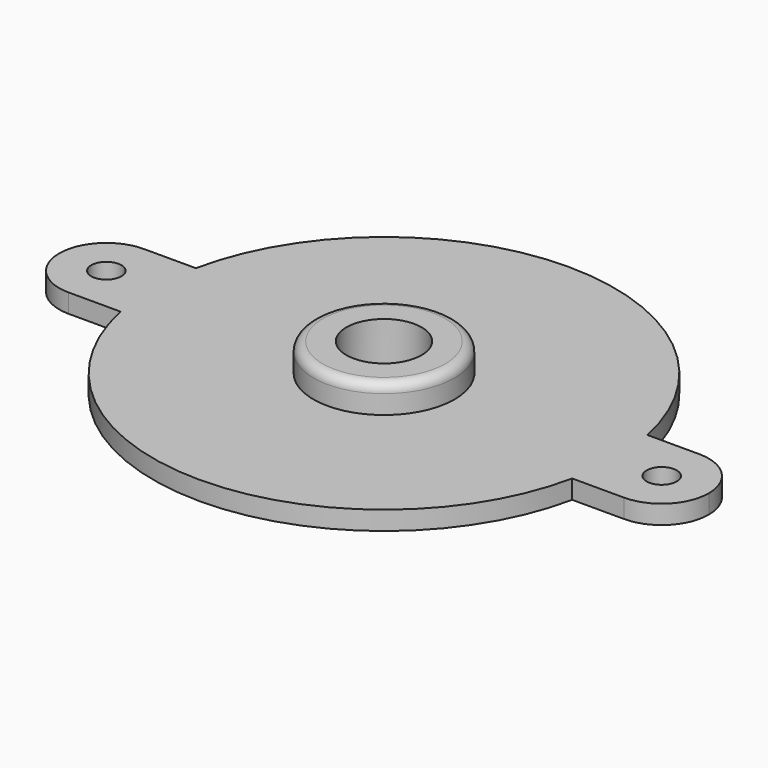
from build123d import *

# Parameters (mm, degrees)
F0_R     = 1.6
F0_R_2   = 4
F1_DEPTH = 2
F2_R     = 7.5
F2_R_2   = 4
F3_DEPTH = 3
F4_R     = 1


with BuildPart() as f1:
    # F0 (on Top) → F1 (new body)
    with BuildSketch(Plane.XY):
        with BuildLine():
            ThreePointArc((-29.5, -5), (-25.964466, -3.535534), (-24.5, 0))
            ThreePointArc((-24.5, 0), (-25.964466, 3.535534), (-29.5, 5))
            ThreePointArc((-29.5, 5), (-34.5, 0), (-29.5, -5))
        make_face()
        with Locations((-29.5, 0)):
            Circle(F0_R, mode=Mode.SUBTRACT)
        with BuildLine():
            ThreePointArc((-29.5, 5), (-25.964466, 3.535534), (-24.5, 0))
            ThreePointArc((-24.5, 0), (-24.370752, 2.513259), (-23.98437, 5))
            Line((-23.98437, 5), (-29.5, 5))
        make_face()
        with BuildLine():
            ThreePointArc((-23.98437, -5), (-24.370752, -2.513259), (-24.5, 0))
            ThreePointArc((-24.5, 0), (-25.964466, -3.535534), (-29.5, -5))
            Line((-29.5, -5), (-23.98437, -5))
        make_face()
        with BuildLine():
            ThreePointArc((-23.98437, 5), (-24.370752, 2.513259), (-24.5, 0))
            ThreePointArc((-24.5, 0), (-24.370752, -2.513259), (-23.98437, -5))
            ThreePointArc((-23.98437, -5), (0, -24.5), (23.98437, -5))
            ThreePointArc((23.98437, -5), (24.370752, -2.513259), (24.5, 0))
            ThreePointArc((24.5, 0), (24.370752, 2.513259), (23.98437, 5))
            ThreePointArc((23.98437, 5), (0, 24.5), (-23.98437, 5))
        make_face()
        Circle(F0_R_2, mode=Mode.SUBTRACT)
        with BuildLine():
            ThreePointArc((29.5, 5), (25.964466, 3.535534), (24.5, 0))
            ThreePointArc((24.5, 0), (25.964466, -3.535534), (29.5, -5))
            ThreePointArc((29.5, -5), (33.035534, -3.535534), (34.5, 0))
            ThreePointArc((34.5, 0), (33.035534, 3.535534), (29.5, 5))
        make_face()
        with Locations((29.5, 0)):
            Circle(F0_R, mode=Mode.SUBTRACT)
        with BuildLine():
            ThreePointArc((24.5, 0), (24.370752, -2.513259), (23.98437, -5))
            Line((23.98437, -5), (29.5, -5))
            ThreePointArc((29.5, -5), (25.964466, -3.535534), (24.5, 0))
        make_face()
        with BuildLine():
            Line((29.5, 5), (23.98437, 5))
            ThreePointArc((23.98437, 5), (24.370752, 2.513259), (24.5, 0))
            ThreePointArc((24.5, 0), (25.964466, 3.535534), (29.5, 5))
        make_face()
    extrude(amount=F1_DEPTH)

    # F2 (on face) → F3 (join)
    with BuildSketch(Plane.XY.offset(2)):
        Circle(F2_R)
        Circle(F2_R_2, mode=Mode.SUBTRACT)
    extrude(amount=F3_DEPTH)

    # F4
    f4_edges = [f1.edges().sort_by_distance(p)[0] for p in [
        (-7.5, 0, 5),
    ]]
    fillet(f4_edges, radius=F4_R)


solid = f1.part
